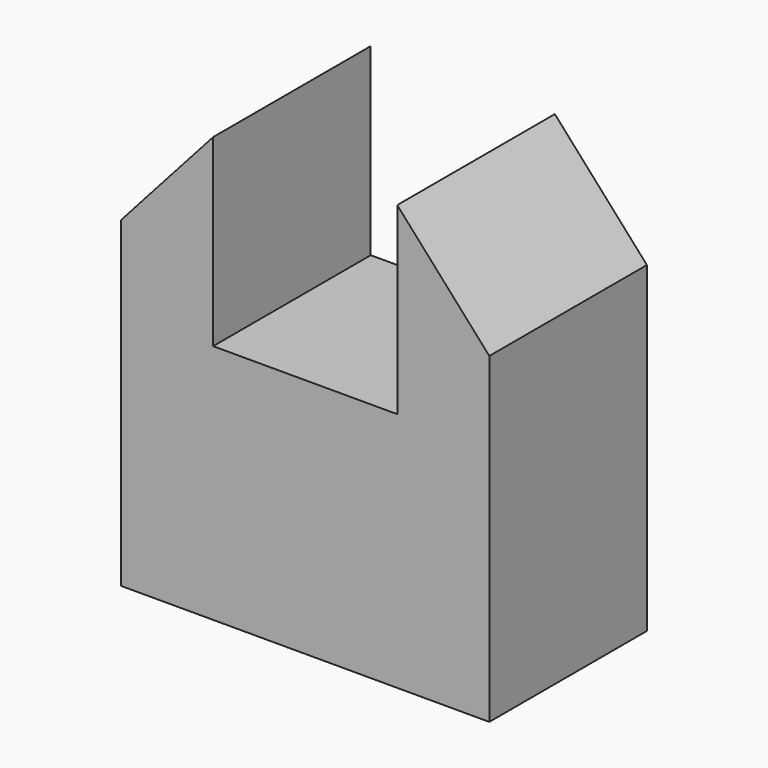
from build123d import *

# Parameters (mm, degrees)
F0_W     = 25.4
F0_H     = 25.4
F0_W_2   = 50.8
F1_DEPTH = 25.4
F2_DEPTH = 28.956


with BuildPart() as f1:
    # F0 (on Front) → F1 (new body)
    with BuildSketch(Plane.XZ):
        with Locations((-28.554517, -9.791291)):
            Rectangle(F0_W, F0_H)
        with Locations((9.545483, -9.791291)):
            Rectangle(F0_W_2, F0_H)
        with Locations((47.645483, -9.791291)):
            Rectangle(F0_W, F0_H)
        Polygon((-41.254517, 66.408709), (-41.254517, 2.908709), (-15.854517, 2.908709), (34.945483, 2.908709), (60.345483, 2.908709), (60.345483, 66.408709), (34.945483, 94.806772), (34.945483, 44.006772), (-15.854517, 44.006772), (-15.854517, 94.806772), align=None)
    extrude(amount=F1_DEPTH)

    # F1_face (on face) → F2 (join)
    with BuildSketch(Plane(origin=(9.545483, -25.4, 22.080837), x_dir=(1, 0, 0), z_dir=(0, -1, 0))):
        Polygon((-50.8, -44.572128), (50.8, -44.572128), (50.8, 44.327872), (25.4, 72.725935), (25.4, 21.925935), (-25.4, 21.925935), (-25.4, 72.725935), (-50.8, 44.327872), align=None)
    extrude(amount=F2_DEPTH)


solid = f1.part
